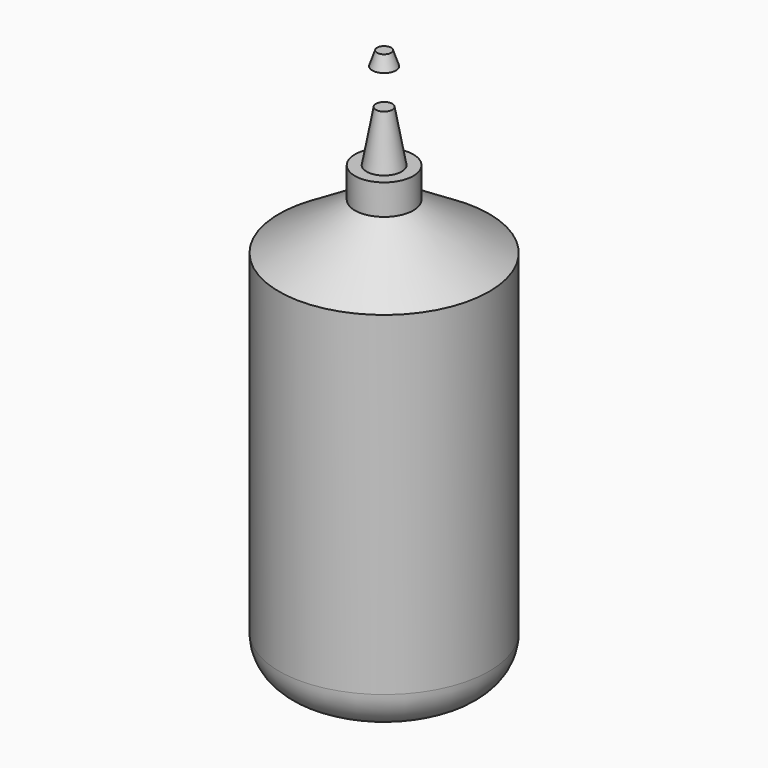
from build123d import *

# Parameters (mm, degrees)
F0_R      = 45
F1_DEPTH  = 160
F2_R      = 17
F1_FACE_R = 45
F4_R      = 12.5
F6_DEPTH  = 13
F9_R      = 3.5
F7_R      = 7.5
F14_R     = 3
F12_R     = 5.040451435
F16_T     = -1


with BuildPart() as f1:
    # F0 (on Top) → F1 (new body)
    with BuildSketch(Plane.XY):
        Circle(F0_R)
    extrude(amount=F1_DEPTH)

    # F2
    f2_edges = [f1.edges().sort_by_distance(p)[0] for p in [
        (-45, 0, 0),
    ]]
    fillet(f2_edges, radius=F2_R)

    # F1_face (on face) → F5 section 0
    with BuildSketch(Plane.XY.offset(160)):
        Circle(F1_FACE_R)
    # F4 (on offset) → F5 section 1
    with BuildSketch(Plane.XY.offset(180)):
        Circle(F4_R)
    loft()

    # F6 (add): a face of the model
    f6_faces = [f1.faces().sort_by_distance(p)[0] for p in [
        (0, 0, 180),
    ]]
    extrude(f6_faces, amount=F6_DEPTH)

    # F9 (on offset) → F10 section 0
    with BuildSketch(Plane.XY.offset(215)):
        Circle(F9_R)
    # F7 (on face) → F10 section 1
    with BuildSketch(Plane.XY.offset(193)):
        Circle(F7_R)
    loft()


with BuildPart() as f15:
    # F14 (on offset) → F15 section 0
    with BuildSketch(Plane.XY.offset(236.3)):
        Circle(F14_R)
    # F12 (on offset) → F15 section 1
    with BuildSketch(Plane.XY.offset(230.3)):
        Circle(F12_R)
    loft()

    # F16
    f16_openings = [f15.faces().sort_by_distance(p)[0] for p in [
        (0, 0, 230.3),
    ]]
    offset(amount=F16_T, openings=f16_openings, kind=Kind.INTERSECTION)


solid = Compound([f1.part, f15.part])
